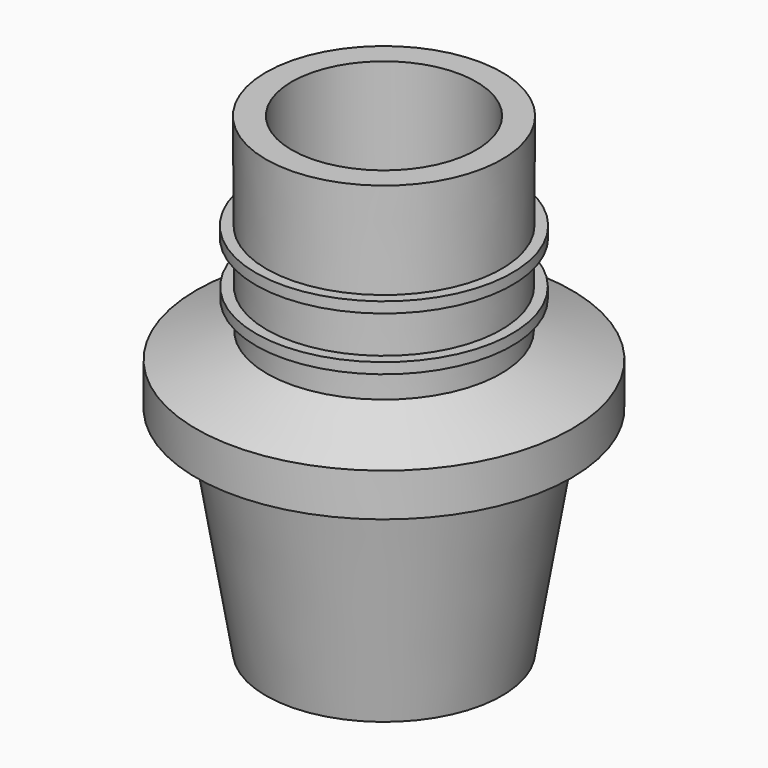
from build123d import *


with BuildPart() as f1:
    # F0 (on Front) → F1 (revolve)
    with BuildSketch(Plane.XZ):
        Polygon((-17.5, 24), (-17.5, 20), (-14.327303, 20), (-11, 0), (-8.6, 0), (-8.6, 44), (-11, 44), (-10.954337, 35.000142), (-11.949263, 35.000142), (-11.949263, 34.000142), (-10.949263, 34.000142), (-10.928968, 30.000193), (-11.923894, 30.000193), (-11.923894, 29.000193), (-10.923894, 29.000193), (-10.910693, 26.398312), align=None)
    revolve(axis=Axis((0, 0, 10.536797), (0, 0, 1)))


solid = f1.part
